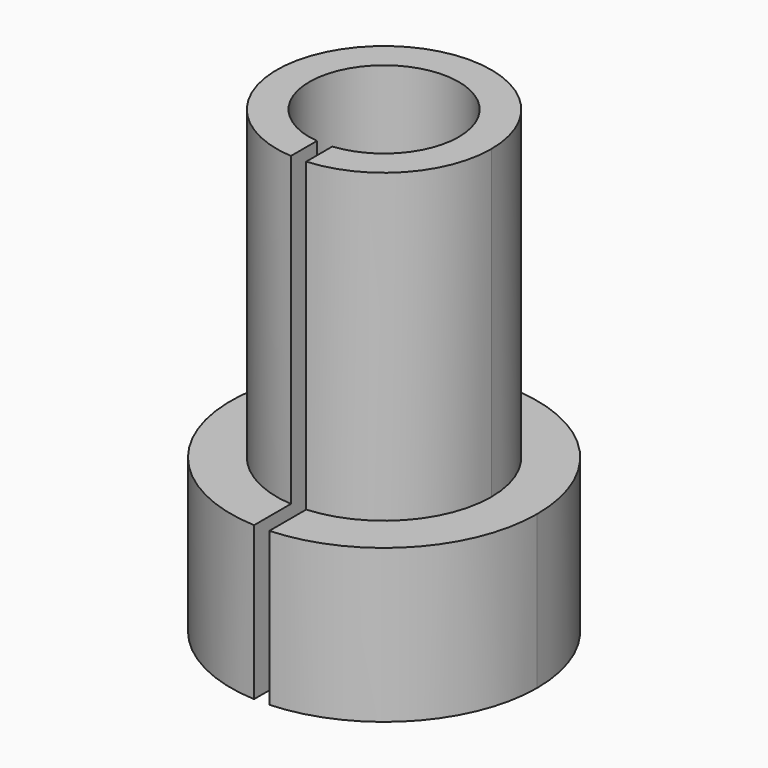
from build123d import *

# Parameters (mm, degrees)
F1_DEPTH = 10
F2_DEPTH = 30


with BuildPart() as f1:
    # F0 (on Top) → F1 (new body)
    with BuildSketch(Plane.XY):
        with BuildLine():
            ThreePointArc((0.5, -9.9874921777), (7.2456883731, -6.892024376), (10, 0))
            ThreePointArc((10, 0), (-6.892024376, 7.2456883731), (-0.5, -9.9874921777))
            Line((-0.5, -9.9874921777), (-0.5, -6.9821200219))
            ThreePointArc((-0.5, -6.9821200219), (-4.7696960071, 5.123475383), (7, 0))
            ThreePointArc((7, 0), (5.123475383, -4.7696960071), (0.5, -6.9821200219))
            Line((0.5, -6.9821200219), (0.5, -9.9874921777))
        make_face()
    extrude(amount=F1_DEPTH)

    # F0 (on Top) → F2 (join)
    with BuildSketch(Plane.XY):
        with BuildLine():
            ThreePointArc((7, 0), (-4.7696960071, 5.123475383), (-0.5, -6.9821200219))
            Line((-0.5, -6.9821200219), (-0.5, -4.8492911853))
            ThreePointArc((-0.5, -4.8492911853), (-3.2655876194, 3.6196080589), (4.875, 0))
            ThreePointArc((4.875, 0), (3.6196080589, -3.2655876194), (0.5, -4.8492911853))
            Line((0.5, -4.8492911853), (0.5, -6.9821200219))
            ThreePointArc((0.5, -6.9821200219), (5.123475383, -4.7696960071), (7, 0))
        make_face()
    extrude(amount=F2_DEPTH)


solid = f1.part
